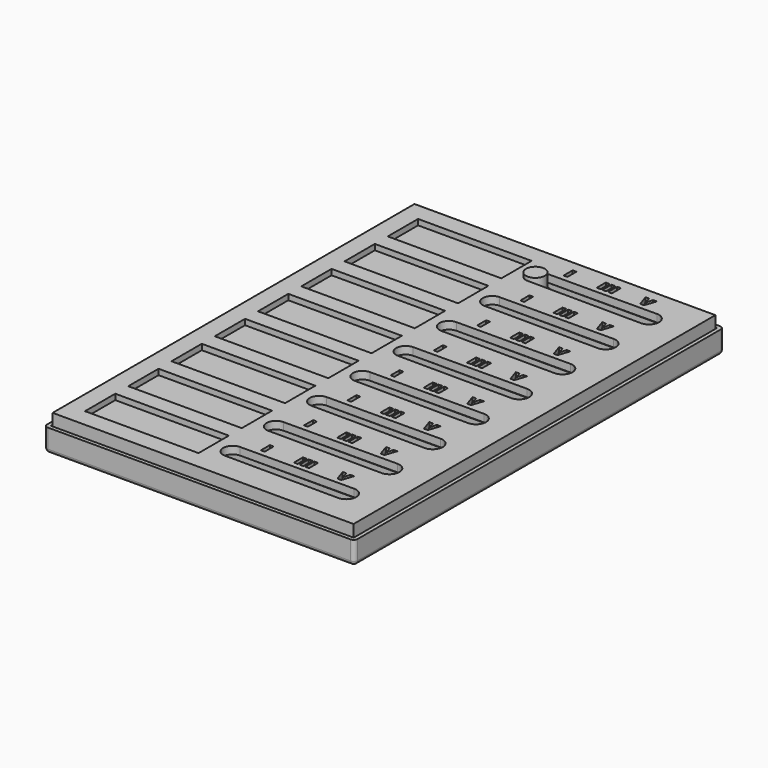
from build123d import *

# Parameters (mm, degrees)
SKETCH_W               = 80
SKETCH_H               = 120
PAD_DEPTH              = 5
THICKNESS_T            = 1
PAD001_DEPTH           = 5
POCKET001_DEPTH        = 5
LINEARPATTERN_COUNT    = 8
LINEARPATTERN_PITCH    = 14.285714
LINEARPATTERN002_COUNT = 8
LINEARPATTERN002_PITCH = 14.285714
SKETCH002_W            = 79.5
SKETCH002_H            = 119.5
PAD002_DEPTH           = 6
THICKNESS002_T         = -2
POCKET_DEPTH           = 5
LINEARPATTERN001_COUNT = 8
LINEARPATTERN001_PITCH = 14.285714
SKETCH017_W            = 30
SKETCH017_H            = 10
SKETCH017_W_2          = 1
SKETCH017_H_2          = 3
POCKET002_DEPTH        = 1.5
LINEARPATTERN003_COUNT = 8
LINEARPATTERN003_PITCH = 14.285714
PAD003_DEPTH           = 4
SKETCH005_R            = 2.5
PAD004_DEPTH           = 5
SKETCH007_W            = 2.5
SKETCH007_H            = 7
PAD005_DEPTH           = 5.5
CHAMFER_SIZE           = 1
SKETCH018_W            = 29.5
SKETCH018_H            = 9.5
PAD006_DEPTH           = 1
PAD007_DEPTH           = 2
SKETCH019_W            = 29.5
SKETCH019_H            = 9.5
PAD008_DEPTH           = 1
PAD009_DEPTH           = 2


with BuildPart() as base:
    # Sketch → Pad (new body)
    with BuildSketch(Plane.XY):
        Rectangle(SKETCH_W, SKETCH_H)
    extrude(amount=PAD_DEPTH)

    # Thickness
    thickness_openings = [base.faces().sort_by_distance(p)[0] for p in [
        (0, 0, 5),
    ]]
    offset(amount=THICKNESS_T, openings=thickness_openings)

    # Sketch001 (on DatumPlane) → Pad001 (join)
    with BuildSketch(Plane(origin=(0, 50, 0), x_dir=(1, 0, 0), z_dir=(0, 0, 1))):
        with BuildLine():
            ThreePointArc((-30, 5), (-35, 0), (-30, -5))
            Line((-30, -5), (30, -5))
            ThreePointArc((30, -5), (35, 0), (30, 5))
            Line((-30, 5), (30, 5))
        make_face()
    pad001 = extrude(amount=PAD001_DEPTH)

    # Sketch006 (on DatumPlane) → Pocket001 (cut)
    with BuildSketch(Plane(origin=(0, 50, 5), x_dir=(1, 0, 0), z_dir=(0, 0, 1))):
        with BuildLine():
            ThreePointArc((-30, 4), (-34, 0), (-30, -4))
            Line((-30, -4), (30, -4))
            ThreePointArc((30, -4), (34, 0), (30, 4))
            Line((-30, 4), (30, 4))
        make_face()
    pocket001 = extrude(amount=-POCKET001_DEPTH, mode=Mode.SUBTRACT)

    # LinearPattern: Pad001 ×8
    with Locations(*[(0, -i * LINEARPATTERN_PITCH, 0) for i in range(1, LINEARPATTERN_COUNT)]):
        add(pad001)

    # LinearPattern002: Pocket001 ×8
    with Locations(*[(0, -i * LINEARPATTERN002_PITCH, 0) for i in range(1, LINEARPATTERN002_COUNT)]):
        add(pocket001, mode=Mode.SUBTRACT)


with BuildPart() as lid:
    # Sketch002 → Pad002 (new body)
    with BuildSketch(Plane.XY.offset(2)):
        Rectangle(SKETCH002_W, SKETCH002_H)
    extrude(amount=PAD002_DEPTH)

    # Thickness002
    thickness002_openings = [lid.faces().sort_by_distance(p)[0] for p in [
        (0, 0, 2),
    ]]
    offset(amount=THICKNESS002_T, openings=thickness002_openings)

    # Sketch003 (on DatumPlane) → Pocket (cut)
    with BuildSketch(Plane(origin=(0, 50, 8), x_dir=(1, 0, 0), z_dir=(0, 0, 1))):
        with BuildLine():
            ThreePointArc((0, 2.5), (-2.487832, 0), (0, -2.5))
            Line((0, -2.5), (30, -2.646376))
            ThreePointArc((30, -2.646376), (32.65932, 0), (30, 2.646376))
            Line((0, 2.5), (30, 2.646376))
        make_face()
    pocket = extrude(amount=-POCKET_DEPTH, mode=Mode.SUBTRACT)

    # LinearPattern001: Pocket ×8
    with Locations(*[(0, -i * LINEARPATTERN001_PITCH, 0) for i in range(1, LINEARPATTERN001_COUNT)]):
        add(pocket, mode=Mode.SUBTRACT)

    # Sketch017 (on DatumPlane) → Pocket002 (cut)
    with BuildSketch(Plane(origin=(0, 50, 8), x_dir=(1, 0, 0), z_dir=(0, 0, 1))):
        with Locations((-20, 0)):
            Rectangle(SKETCH017_W, SKETCH017_H)
        with Locations((4.75, 5.5)):
            Rectangle(SKETCH017_W_2, SKETCH017_H_2)
        with Locations((13.5, 5.5)):
            Rectangle(SKETCH017_W_2, SKETCH017_H_2)
        with Locations((15, 5.5)):
            Rectangle(SKETCH017_W_2, SKETCH017_H_2)
        with Locations((16.5, 5.5)):
            Rectangle(SKETCH017_W_2, SKETCH017_H_2)
        Polygon((23.5, 7), (24.5, 7), (25, 5), (25.5, 7), (26.5, 7), (25.5, 4), (24.5, 4), align=None)
    pocket002 = extrude(amount=-POCKET002_DEPTH, mode=Mode.SUBTRACT)

    # LinearPattern003: Pocket002 ×8
    with Locations(*[(0, -i * LINEARPATTERN003_PITCH, 0) for i in range(1, LINEARPATTERN003_COUNT)]):
        add(pocket002, mode=Mode.SUBTRACT)


with BuildPart() as slider:
    # Sketch004 → Pad003 (new body)
    with BuildSketch(Plane(origin=(0, 50, 0), x_dir=(1, 0, 0), z_dir=(0, 0, 1))):
        with BuildLine():
            ThreePointArc((-30, 3.75), (-33.75, 0), (-30, -3.75))
            Line((-30, -3.75), (0, -3.75))
            ThreePointArc((0, -3.75), (3.75, 0), (0, 3.75))
            Line((-30, 3.75), (0, 3.75))
        make_face()
    extrude(amount=PAD003_DEPTH)

    # Sketch005 (on DatumPlane) → Pad004 (join)
    with BuildSketch(Plane(origin=(0, 50, 4), x_dir=(1, 0, 0), z_dir=(0, 0, 1))):
        Circle(SKETCH005_R)
    extrude(amount=PAD004_DEPTH)

    # Sketch007 (on DatumPlane) → Pad005 (join)
    with BuildSketch(Plane(origin=(0, 50, 0), x_dir=(1, 0, 0), z_dir=(0, 0, 1))):
        with Locations((-28.75, 0)):
            Rectangle(SKETCH007_W, SKETCH007_H)
    extrude(amount=PAD005_DEPTH)

    # Chamfer
    chamfer_edges = [slider.edges().sort_by_distance(p)[0] for p in [
        (-27.5, 50, 5.5),
        (-30, 50, 5.5),
    ]]
    chamfer(chamfer_edges, length=CHAMFER_SIZE)


with BuildPart() as sunbadge:
    # Sketch018 → Pad006 (new body)
    with BuildSketch(Plane.XY):
        Rectangle(SKETCH018_W, SKETCH018_H)
    extrude(amount=PAD006_DEPTH)

    # Sketch008 (on DatumPlane) → Pad007 (join)
    with BuildSketch(Plane(origin=(30, -50.5, 0), x_dir=(1, 0, 0), z_dir=(0, 0, 1))):
        with BuildLine():
            add(Edge.make_bspline(
                [(-37.253, 48.375), (-37.253, 48.291), (-37.235, 48.219)],
                knots=[0, 0, 0, 1, 1, 1], degree=2))
            add(Edge.make_bspline(
                [(-37.235, 48.219), (-37.217, 48.15), (-37.19, 48.075)],
                knots=[0, 0, 0, 1, 1, 1], degree=2))
            add(Edge.make_bspline(
                [(-37.19, 48.075), (-37.172, 48.033), (-37.076, 47.988)],
                knots=[0, 0, 0, 1, 1, 1], degree=2))
            add(Edge.make_bspline(
                [(-37.076, 47.988), (-36.977, 47.943), (-36.854, 47.901)],
                knots=[0, 0, 0, 1, 1, 1], degree=2))
            add(Edge.make_bspline(
                [(-36.854, 47.901), (-36.728, 47.859), (-36.599, 47.835)],
                knots=[0, 0, 0, 1, 1, 1], degree=2))
            add(Edge.make_bspline(
                [(-36.599, 47.835), (-36.47, 47.808), (-36.386, 47.808)],
                knots=[0, 0, 0, 1, 1, 1], degree=2))
            add(Edge.make_bspline(
                [(-36.386, 47.808), (-36.056, 47.808), (-35.849, 48)],
                knots=[0, 0, 0, 1, 1, 1], degree=2))
            add(Edge.make_bspline(
                [(-35.849, 48), (-35.642, 48.189), (-35.519, 48.429)],
                knots=[0, 0, 0, 1, 1, 1], degree=2))
            add(Edge.make_bspline(
                [(-35.519, 48.429), (-35.393, 48.672), (-35.348, 48.9)],
                knots=[0, 0, 0, 1, 1, 1], degree=2))
            add(Edge.make_bspline(
                [(-35.348, 48.9), (-35.3, 49.128), (-35.3, 49.2)],
                knots=[0, 0, 0, 1, 1, 1], degree=2))
            add(Edge.make_bspline(
                [(-35.3, 49.2), (-35.3, 49.599), (-35.456, 50.04)],
                knots=[0, 0, 0, 1, 1, 1], degree=2))
            add(Edge.make_bspline(
                [(-35.456, 50.04), (-35.612, 50.481), (-35.804, 50.895)],
                knots=[0, 0, 0, 1, 1, 1], degree=2))
            add(Edge.make_bspline(
                [(-35.804, 50.895), (-35.993, 51.309), (-36.149, 51.669)],
                knots=[0, 0, 0, 1, 1, 1], degree=2))
            add(Edge.make_bspline(
                [(-36.149, 51.669), (-36.305, 52.029), (-36.305, 52.266)],
                knots=[0, 0, 0, 1, 1, 1], degree=2))
            add(Edge.make_bspline(
                [(-36.305, 52.266), (-36.305, 52.647), (-36.038, 52.905)],
                knots=[0, 0, 0, 1, 1, 1], degree=2))
            add(Edge.make_bspline(
                [(-36.038, 52.905), (-35.771, 53.166), (-35.162, 53.184)],
                knots=[0, 0, 0, 1, 1, 1], degree=2))
            add(Edge.make_bspline(
                [(-35.162, 53.184), (-34.904, 53.193), (-34.835, 53.247)],
                knots=[0, 0, 0, 1, 1, 1], degree=2))
            add(Edge.make_bspline(
                [(-34.835, 53.247), (-34.766, 53.304), (-34.766, 53.49)],
                knots=[0, 0, 0, 1, 1, 1], degree=2))
            add(Edge.make_bspline(
                [(-34.766, 53.49), (-34.766, 53.565), (-34.859, 53.616)],
                knots=[0, 0, 0, 1, 1, 1], degree=2))
            add(Edge.make_bspline(
                [(-34.859, 53.616), (-34.949, 53.667), (-35.069, 53.7)],
                knots=[0, 0, 0, 1, 1, 1], degree=2))
            add(Edge.make_bspline(
                [(-35.069, 53.7), (-35.189, 53.733), (-35.315, 53.745)],
                knots=[0, 0, 0, 1, 1, 1], degree=2))
            add(Edge.make_bspline(
                [(-35.315, 53.745), (-35.438, 53.76), (-35.501, 53.76)],
                knots=[0, 0, 0, 1, 1, 1], degree=2))
            add(Edge.make_bspline(
                [(-35.501, 53.76), (-35.798, 53.76), (-36.071, 53.544)],
                knots=[0, 0, 0, 1, 1, 1], degree=2))
            add(Edge.make_bspline(
                [(-36.071, 53.544), (-36.341, 53.328), (-36.548, 53.031)],
                knots=[0, 0, 0, 1, 1, 1], degree=2))
            add(Edge.make_bspline(
                [(-36.548, 53.031), (-36.755, 52.737), (-36.881, 52.446)],
                knots=[0, 0, 0, 1, 1, 1], degree=2))
            add(Edge.make_bspline(
                [(-36.881, 52.446), (-37.004, 52.158), (-37.004, 52.002)],
                knots=[0, 0, 0, 1, 1, 1], degree=2))
            add(Edge.make_bspline(
                [(-37.004, 52.002), (-37.004, 51.828), (-36.917, 51.579)],
                knots=[0, 0, 0, 1, 1, 1], degree=2))
            add(Edge.make_bspline(
                [(-36.917, 51.579), (-36.83, 51.33), (-36.701, 51.048)],
                knots=[0, 0, 0, 1, 1, 1], degree=2))
            add(Edge.make_bspline(
                [(-36.701, 51.048), (-36.572, 50.769), (-36.419, 50.469)],
                knots=[0, 0, 0, 1, 1, 1], degree=2))
            add(Edge.make_bspline(
                [(-36.419, 50.469), (-36.266, 50.169), (-36.137, 49.887)],
                knots=[0, 0, 0, 1, 1, 1], degree=2))
            add(Edge.make_bspline(
                [(-36.137, 49.887), (-36.008, 49.608), (-35.921, 49.359)],
                knots=[0, 0, 0, 1, 1, 1], degree=2))
            add(Edge.make_bspline(
                [(-35.921, 49.359), (-35.834, 49.11), (-35.834, 48.927)],
                knots=[0, 0, 0, 1, 1, 1], degree=2))
            add(Edge.make_bspline(
                [(-35.834, 48.927), (-35.834, 48.726), (-35.987, 48.555)],
                knots=[0, 0, 0, 1, 1, 1], degree=2))
            add(Edge.make_bspline(
                [(-35.987, 48.555), (-36.137, 48.384), (-36.386, 48.384)],
                knots=[0, 0, 0, 1, 1, 1], degree=2))
            add(Edge.make_bspline(
                [(-36.386, 48.384), (-36.644, 48.384), (-36.821, 48.471)],
                knots=[0, 0, 0, 1, 1, 1], degree=2))
            add(Edge.make_bspline(
                [(-36.821, 48.471), (-36.995, 48.558), (-37.124, 48.558)],
                knots=[0, 0, 0, 1, 1, 1], degree=2))
            add(Edge.make_bspline(
                [(-37.124, 48.558), (-37.172, 48.558), (-37.214, 48.516)],
                knots=[0, 0, 0, 1, 1, 1], degree=2))
            add(Edge.make_bspline(
                [(-37.214, 48.516), (-37.253, 48.477), (-37.253, 48.375)],
                knots=[0, 0, 0, 1, 1, 1], degree=2))
        make_face()
        with BuildLine():
            add(Edge.make_bspline(
                [(-33.2, 53.163), (-33.2, 52.446), (-33.179, 51.762)],
                knots=[0, 0, 0, 1, 1, 1], degree=2))
            add(Edge.make_bspline(
                [(-33.179, 51.762), (-33.155, 51.078), (-33.104, 50.502)],
                knots=[0, 0, 0, 1, 1, 1], degree=2))
            add(Edge.make_bspline(
                [(-33.104, 50.502), (-33.053, 49.926), (-32.975, 49.494)],
                knots=[0, 0, 0, 1, 1, 1], degree=2))
            add(Edge.make_bspline(
                [(-32.975, 49.494), (-32.897, 49.065), (-32.786, 48.849)],
                knots=[0, 0, 0, 1, 1, 1], degree=2))
            add(Edge.make_bspline(
                [(-32.786, 48.849), (-32.684, 48.651), (-32.483, 48.489)],
                knots=[0, 0, 0, 1, 1, 1], degree=2))
            add(Edge.make_bspline(
                [(-32.483, 48.489), (-32.279, 48.33), (-32.045, 48.222)],
                knots=[0, 0, 0, 1, 1, 1], degree=2))
            add(Edge.make_bspline(
                [(-32.045, 48.222), (-31.808, 48.114), (-31.571, 48.057)],
                knots=[0, 0, 0, 1, 1, 1], degree=2))
            add(Edge.make_bspline(
                [(-31.571, 48.057), (-31.331, 48), (-31.145, 48)],
                knots=[0, 0, 0, 1, 1, 1], degree=2))
            add(Edge.make_bspline(
                [(-31.145, 48), (-31.052, 48), (-30.962, 48.009)],
                knots=[0, 0, 0, 1, 1, 1], degree=2))
            add(Edge.make_bspline(
                [(-30.962, 48.009), (-30.869, 48.021), (-30.767, 48.06)],
                knots=[0, 0, 0, 1, 1, 1], degree=2))
            add(Edge.make_bspline(
                [(-30.767, 48.06), (-30.371, 48.228), (-29.972, 48.558)],
                knots=[0, 0, 0, 1, 1, 1], degree=2))
            add(Edge.make_bspline(
                [(-29.972, 48.558), (-29.57, 48.888), (-29.348, 49.431)],
                knots=[0, 0, 0, 1, 1, 1], degree=2))
            add(Edge.make_bspline(
                [(-29.348, 49.431), (-29.294, 49.581), (-29.231, 49.86)],
                knots=[0, 0, 0, 1, 1, 1], degree=2))
            add(Edge.make_bspline(
                [(-29.231, 49.86), (-29.165, 50.142), (-29.105, 50.487)],
                knots=[0, 0, 0, 1, 1, 1], degree=2))
            add(Edge.make_bspline(
                [(-29.105, 50.487), (-29.045, 50.832), (-28.991, 51.21)],
                knots=[0, 0, 0, 1, 1, 1], degree=2))
            add(Edge.make_bspline(
                [(-28.991, 51.21), (-28.934, 51.588), (-28.892, 51.924)],
                knots=[0, 0, 0, 1, 1, 1], degree=2))
            add(Edge.make_bspline(
                [(-28.892, 51.924), (-28.85, 52.263), (-28.823, 52.524)],
                knots=[0, 0, 0, 1, 1, 1], degree=2))
            add(Edge.make_bspline(
                [(-28.823, 52.524), (-28.796, 52.788), (-28.796, 52.899)],
                knots=[0, 0, 0, 1, 1, 1], degree=2))
            add(Edge.make_bspline(
                [(-28.796, 52.899), (-28.796, 53.055), (-28.94, 53.133)],
                knots=[0, 0, 0, 1, 1, 1], degree=2))
            add(Edge.make_bspline(
                [(-28.94, 53.133), (-29.081, 53.211), (-29.255, 53.211)],
                knots=[0, 0, 0, 1, 1, 1], degree=2))
            add(Edge.make_bspline(
                [(-29.255, 53.211), (-29.402, 53.211), (-29.504, 53.163)],
                knots=[0, 0, 0, 1, 1, 1], degree=2))
            add(Edge.make_bspline(
                [(-29.504, 53.163), (-29.606, 53.118), (-29.606, 52.998)],
                knots=[0, 0, 0, 1, 1, 1], degree=2))
            add(Edge.make_bspline(
                [(-29.606, 52.998), (-29.606, 52.953), (-29.588, 52.878)],
                knots=[0, 0, 0, 1, 1, 1], degree=2))
            add(Edge.make_bspline(
                [(-29.588, 52.878), (-29.57, 52.806), (-29.552, 52.668)],
                knots=[0, 0, 0, 1, 1, 1], degree=2))
            add(Edge.make_bspline(
                [(-29.552, 52.668), (-29.531, 52.53), (-29.513, 52.308)],
                knots=[0, 0, 0, 1, 1, 1], degree=2))
            add(Edge.make_bspline(
                [(-29.513, 52.308), (-29.495, 52.086), (-29.495, 51.756)],
                knots=[0, 0, 0, 1, 1, 1], degree=2))
            add(Edge.make_bspline(
                [(-29.495, 51.756), (-29.495, 51.507), (-29.51, 51.174)],
                knots=[0, 0, 0, 1, 1, 1], degree=2))
            add(Edge.make_bspline(
                [(-29.51, 51.174), (-29.522, 50.841), (-29.57, 50.487)],
                knots=[0, 0, 0, 1, 1, 1], degree=2))
            add(Edge.make_bspline(
                [(-29.57, 50.487), (-29.615, 50.133), (-29.711, 49.791)],
                knots=[0, 0, 0, 1, 1, 1], degree=2))
            add(Edge.make_bspline(
                [(-29.711, 49.791), (-29.807, 49.452), (-29.975, 49.179)],
                knots=[0, 0, 0, 1, 1, 1], degree=2))
            add(Edge.make_bspline(
                [(-29.975, 49.179), (-30.14, 48.906), (-30.389, 48.741)],
                knots=[0, 0, 0, 1, 1, 1], degree=2))
            add(Edge.make_bspline(
                [(-30.389, 48.741), (-30.638, 48.576), (-30.989, 48.576)],
                knots=[0, 0, 0, 1, 1, 1], degree=2))
            add(Edge.make_bspline(
                [(-30.989, 48.576), (-31.154, 48.576), (-31.358, 48.642)],
                knots=[0, 0, 0, 1, 1, 1], degree=2))
            add(Edge.make_bspline(
                [(-31.358, 48.642), (-31.559, 48.708), (-31.748, 48.819)],
                knots=[0, 0, 0, 1, 1, 1], degree=2))
            add(Edge.make_bspline(
                [(-31.748, 48.819), (-31.937, 48.933), (-32.096, 49.077)],
                knots=[0, 0, 0, 1, 1, 1], degree=2))
            add(Edge.make_bspline(
                [(-32.096, 49.077), (-32.252, 49.224), (-32.315, 49.383)],
                knots=[0, 0, 0, 1, 1, 1], degree=2))
            add(Edge.make_bspline(
                [(-32.315, 49.383), (-32.471, 49.731), (-32.504, 50.175)],
                knots=[0, 0, 0, 1, 1, 1], degree=2))
            add(Edge.make_bspline(
                [(-32.504, 50.175), (-32.537, 50.622), (-32.537, 51.222)],
                knots=[0, 0, 0, 1, 1, 1], degree=2))
            add(Edge.make_bspline(
                [(-32.537, 51.222), (-32.537, 51.795), (-32.486, 52.122)],
                knots=[0, 0, 0, 1, 1, 1], degree=2))
            add(Edge.make_bspline(
                [(-32.486, 52.122), (-32.435, 52.452), (-32.381, 52.629)],
                knots=[0, 0, 0, 1, 1, 1], degree=2))
            add(Edge.make_bspline(
                [(-32.381, 52.629), (-32.324, 52.809), (-32.273, 52.887)],
                knots=[0, 0, 0, 1, 1, 1], degree=2))
            add(Edge.make_bspline(
                [(-32.273, 52.887), (-32.222, 52.968), (-32.222, 53.043)],
                knots=[0, 0, 0, 1, 1, 1], degree=2))
            add(Edge.make_bspline(
                [(-32.222, 53.043), (-32.222, 53.118), (-32.321, 53.205)],
                knots=[0, 0, 0, 1, 1, 1], degree=2))
            add(Edge.make_bspline(
                [(-32.321, 53.205), (-32.417, 53.295), (-32.543, 53.373)],
                knots=[0, 0, 0, 1, 1, 1], degree=2))
            add(Edge.make_bspline(
                [(-32.543, 53.373), (-32.666, 53.454), (-32.792, 53.511)],
                knots=[0, 0, 0, 1, 1, 1], degree=2))
            add(Edge.make_bspline(
                [(-32.792, 53.511), (-32.915, 53.568), (-32.978, 53.568)],
                knots=[0, 0, 0, 1, 1, 1], degree=2))
            add(Edge.make_bspline(
                [(-32.978, 53.568), (-33.116, 53.568), (-33.158, 53.472)],
                knots=[0, 0, 0, 1, 1, 1], degree=2))
            add(Edge.make_bspline(
                [(-33.158, 53.472), (-33.2, 53.379), (-33.2, 53.163)],
                knots=[0, 0, 0, 1, 1, 1], degree=2))
        make_face()
        with BuildLine():
            Line((-26.414, 51.45), (-26.525, 49.179))
            add(Edge.make_bspline(
                [(-26.525, 49.179), (-26.543, 48.903), (-26.6, 48.726)],
                knots=[0, 0, 0, 1, 1, 1], degree=2))
            add(Edge.make_bspline(
                [(-26.6, 48.726), (-26.654, 48.552), (-26.714, 48.447)],
                knots=[0, 0, 0, 1, 1, 1], degree=2))
            add(Edge.make_bspline(
                [(-26.714, 48.447), (-26.774, 48.342), (-26.822, 48.27)],
                knots=[0, 0, 0, 1, 1, 1], degree=2))
            add(Edge.make_bspline(
                [(-26.822, 48.27), (-26.867, 48.201), (-26.867, 48.129)],
                knots=[0, 0, 0, 1, 1, 1], degree=2))
            add(Edge.make_bspline(
                [(-26.867, 48.129), (-26.867, 48), (-26.69, 48)],
                knots=[0, 0, 0, 1, 1, 1], degree=2))
            add(Edge.make_bspline(
                [(-26.69, 48), (-26.588, 48), (-26.474, 48.027)],
                knots=[0, 0, 0, 1, 1, 1], degree=2))
            add(Edge.make_bspline(
                [(-26.474, 48.027), (-26.36, 48.054), (-26.138, 48.111)],
                knots=[0, 0, 0, 1, 1, 1], degree=2))
            add(Edge.make_bspline(
                [(-26.138, 48.111), (-26.036, 48.138), (-26.006, 48.216)],
                knots=[0, 0, 0, 1, 1, 1], degree=2))
            add(Edge.make_bspline(
                [(-26.006, 48.216), (-25.973, 48.294), (-25.973, 48.369)],
                knots=[0, 0, 0, 1, 1, 1], degree=2))
            add(Edge.make_bspline(
                [(-25.973, 48.369), (-25.973, 48.477), (-25.982, 48.684)],
                knots=[0, 0, 0, 1, 1, 1], degree=2))
            add(Edge.make_bspline(
                [(-25.982, 48.684), (-25.991, 48.894), (-25.991, 49.095)],
                knots=[0, 0, 0, 1, 1, 1], degree=2))
            add(Edge.make_bspline(
                [(-25.991, 49.095), (-25.991, 49.326), (-25.988, 49.662)],
                knots=[0, 0, 0, 1, 1, 1], degree=2))
            add(Edge.make_bspline(
                [(-25.988, 49.662), (-25.982, 49.998), (-25.979, 50.382)],
                knots=[0, 0, 0, 1, 1, 1], degree=2))
            add(Edge.make_bspline(
                [(-25.979, 50.382), (-25.973, 50.769), (-25.955, 51.177)],
                knots=[0, 0, 0, 1, 1, 1], degree=2))
            add(Edge.make_bspline(
                [(-25.955, 51.177), (-25.934, 51.588), (-25.907, 51.975)],
                knots=[0, 0, 0, 1, 1, 1], degree=2))
            add(Edge.make_bspline(
                [(-25.907, 51.975), (-25.769, 51.819), (-25.499, 51.543)],
                knots=[0, 0, 0, 1, 1, 1], degree=2))
            add(Edge.make_bspline(
                [(-25.499, 51.543), (-25.226, 51.267), (-24.89, 50.913)],
                knots=[0, 0, 0, 1, 1, 1], degree=2))
            add(Edge.make_bspline(
                [(-24.89, 50.913), (-24.554, 50.559), (-24.173, 50.148)],
                knots=[0, 0, 0, 1, 1, 1], degree=2))
            add(Edge.make_bspline(
                [(-24.173, 50.148), (-23.789, 49.74), (-23.429, 49.317)],
                knots=[0, 0, 0, 1, 1, 1], degree=2))
            add(Edge.make_bspline(
                [(-23.429, 49.317), (-23.264, 49.122), (-23.177, 48.927)],
                knots=[0, 0, 0, 1, 1, 1], degree=2))
            add(Edge.make_bspline(
                [(-23.177, 48.927), (-23.087, 48.735), (-23.042, 48.579)],
                knots=[0, 0, 0, 1, 1, 1], degree=2))
            add(Edge.make_bspline(
                [(-23.042, 48.579), (-22.997, 48.423), (-22.964, 48.321)],
                knots=[0, 0, 0, 1, 1, 1], degree=2))
            add(Edge.make_bspline(
                [(-22.964, 48.321), (-22.931, 48.219), (-22.886, 48.219)],
                knots=[0, 0, 0, 1, 1, 1], degree=2))
            add(Edge.make_bspline(
                [(-22.886, 48.219), (-22.847, 48.219), (-22.748, 48.279)],
                knots=[0, 0, 0, 1, 1, 1], degree=2))
            add(Edge.make_bspline(
                [(-22.748, 48.279), (-22.646, 48.339), (-22.541, 48.426)],
                knots=[0, 0, 0, 1, 1, 1], degree=2))
            add(Edge.make_bspline(
                [(-22.541, 48.426), (-22.433, 48.516), (-22.352, 48.621)],
                knots=[0, 0, 0, 1, 1, 1], degree=2))
            add(Edge.make_bspline(
                [(-22.352, 48.621), (-22.268, 48.726), (-22.268, 48.819)],
                knots=[0, 0, 0, 1, 1, 1], degree=2))
            add(Edge.make_bspline(
                [(-22.268, 48.819), (-22.268, 49.113), (-22.277, 49.374)],
                knots=[0, 0, 0, 1, 1, 1], degree=2))
            add(Edge.make_bspline(
                [(-22.277, 49.374), (-22.286, 49.638), (-22.286, 49.869)],
                knots=[0, 0, 0, 1, 1, 1], degree=2))
            add(Edge.make_bspline(
                [(-22.286, 49.869), (-22.286, 50.622), (-22.241, 51.159)],
                knots=[0, 0, 0, 1, 1, 1], degree=2))
            add(Edge.make_bspline(
                [(-22.241, 51.159), (-22.193, 51.699), (-22.139, 52.056)],
                knots=[0, 0, 0, 1, 1, 1], degree=2))
            add(Edge.make_bspline(
                [(-22.139, 52.056), (-22.082, 52.416), (-22.037, 52.626)],
                knots=[0, 0, 0, 1, 1, 1], degree=2))
            add(Edge.make_bspline(
                [(-22.037, 52.626), (-21.989, 52.839), (-21.989, 52.932)],
                knots=[0, 0, 0, 1, 1, 1], degree=2))
            add(Edge.make_bspline(
                [(-21.989, 52.932), (-21.989, 53.034), (-22.037, 53.112)],
                knots=[0, 0, 0, 1, 1, 1], degree=2))
            add(Edge.make_bspline(
                [(-22.037, 53.112), (-22.082, 53.19), (-22.211, 53.19)],
                knots=[0, 0, 0, 1, 1, 1], degree=2))
            add(Edge.make_bspline(
                [(-22.211, 53.19), (-22.304, 53.19), (-22.415, 53.181)],
                knots=[0, 0, 0, 1, 1, 1], degree=2))
            add(Edge.make_bspline(
                [(-22.415, 53.181), (-22.526, 53.172), (-22.628, 53.145)],
                knots=[0, 0, 0, 1, 1, 1], degree=2))
            add(Edge.make_bspline(
                [(-22.628, 53.145), (-22.727, 53.118), (-22.796, 53.067)],
                knots=[0, 0, 0, 1, 1, 1], degree=2))
            add(Edge.make_bspline(
                [(-22.796, 53.067), (-22.865, 53.016), (-22.874, 52.932)],
                knots=[0, 0, 0, 1, 1, 1], degree=2))
            add(Edge.make_bspline(
                [(-22.874, 52.932), (-22.874, 52.869), (-22.847, 52.758)],
                knots=[0, 0, 0, 1, 1, 1], degree=2))
            add(Edge.make_bspline(
                [(-22.847, 52.758), (-22.82, 52.647), (-22.793, 52.461)],
                knots=[0, 0, 0, 1, 1, 1], degree=2))
            add(Edge.make_bspline(
                [(-22.793, 52.461), (-22.763, 52.278), (-22.736, 52.011)],
                knots=[0, 0, 0, 1, 1, 1], degree=2))
            add(Edge.make_bspline(
                [(-22.736, 52.011), (-22.709, 51.744), (-22.709, 51.387)],
                knots=[0, 0, 0, 1, 1, 1], degree=2))
            add(Edge.make_bspline(
                [(-22.709, 51.387), (-22.709, 50.937), (-22.742, 50.508)],
                knots=[0, 0, 0, 1, 1, 1], degree=2))
            add(Edge.make_bspline(
                [(-22.742, 50.508), (-22.772, 50.079), (-22.847, 49.611)],
                knots=[0, 0, 0, 1, 1, 1], degree=2))
            add(Edge.make_bspline(
                [(-22.847, 49.611), (-22.976, 49.722), (-23.333, 50.088)],
                knots=[0, 0, 0, 1, 1, 1], degree=2))
            add(Edge.make_bspline(
                [(-23.333, 50.088), (-23.687, 50.457), (-24.17, 50.982)],
                knots=[0, 0, 0, 1, 1, 1], degree=2))
            add(Edge.make_bspline(
                [(-24.17, 50.982), (-24.653, 51.507), (-25.217, 52.14)],
                knots=[0, 0, 0, 1, 1, 1], degree=2))
            add(Edge.make_bspline(
                [(-25.217, 52.14), (-25.778, 52.776), (-26.312, 53.412)],
                knots=[0, 0, 0, 1, 1, 1], degree=2))
            add(Edge.make_bspline(
                [(-26.312, 53.412), (-26.387, 53.505), (-26.438, 53.535)],
                knots=[0, 0, 0, 1, 1, 1], degree=2))
            add(Edge.make_bspline(
                [(-26.438, 53.535), (-26.489, 53.568), (-26.543, 53.568)],
                knots=[0, 0, 0, 1, 1, 1], degree=2))
            add(Edge.make_bspline(
                [(-26.543, 53.568), (-26.588, 53.568), (-26.639, 53.55)],
                knots=[0, 0, 0, 1, 1, 1], degree=2))
            add(Edge.make_bspline(
                [(-26.639, 53.55), (-26.69, 53.532), (-26.765, 53.466)],
                knots=[0, 0, 0, 1, 1, 1], degree=2))
            Line((-26.765, 53.466), (-27.095, 53.199))
            add(Edge.make_bspline(
                [(-27.095, 53.199), (-27.197, 53.127), (-27.197, 53.061)],
                knots=[0, 0, 0, 1, 1, 1], degree=2))
            add(Edge.make_bspline(
                [(-27.197, 53.061), (-27.197, 52.941), (-27.074, 52.896)],
                knots=[0, 0, 0, 1, 1, 1], degree=2))
            add(Edge.make_bspline(
                [(-27.074, 52.896), (-26.948, 52.851), (-26.798, 52.791)],
                knots=[0, 0, 0, 1, 1, 1], degree=2))
            add(Edge.make_bspline(
                [(-26.798, 52.791), (-26.645, 52.731), (-26.522, 52.593)],
                knots=[0, 0, 0, 1, 1, 1], degree=2))
            add(Edge.make_bspline(
                [(-26.522, 52.593), (-26.396, 52.455), (-26.396, 52.14)],
                knots=[0, 0, 0, 1, 1, 1], degree=2))
            add(Edge.make_bspline(
                [(-26.396, 52.14), (-26.396, 51.966), (-26.402, 51.795)],
                knots=[0, 0, 0, 1, 1, 1], degree=2))
            add(Edge.make_bspline(
                [(-26.402, 51.795), (-26.405, 51.627), (-26.414, 51.45)],
                knots=[0, 0, 0, 1, 1, 1], degree=2))
        make_face()
    extrude(amount=PAD007_DEPTH)


with BuildPart() as obj1:
    # Sketch019 → Pad008 (new body)
    with BuildSketch(Plane.XY):
        Rectangle(SKETCH019_W, SKETCH019_H)
    extrude(amount=PAD008_DEPTH)

    # Sketch009 → Pad009 (join)
    with BuildSketch(Plane(origin=(23.5, -35.5, 0), x_dir=(1, 0, 0), z_dir=(0, 0, 1))):
        with BuildLine():
            Line((-35.567, 36.015), (-34.637, 35.049))
            add(Edge.make_bspline(
                [(-34.637, 35.049), (-34.268, 34.662), (-33.965, 34.413)],
                knots=[0, 0, 0, 1, 1, 1], degree=2))
            add(Edge.make_bspline(
                [(-33.965, 34.413), (-33.659, 34.164), (-33.398, 34.02)],
                knots=[0, 0, 0, 1, 1, 1], degree=2))
            add(Edge.make_bspline(
                [(-33.398, 34.02), (-33.134, 33.876), (-32.894, 33.822)],
                knots=[0, 0, 0, 1, 1, 1], degree=2))
            add(Edge.make_bspline(
                [(-32.894, 33.822), (-32.654, 33.768), (-32.405, 33.768)],
                knots=[0, 0, 0, 1, 1, 1], degree=2))
            add(Edge.make_bspline(
                [(-32.405, 33.768), (-31.76, 33.768), (-31.052, 34.107)],
                knots=[0, 0, 0, 1, 1, 1], degree=2))
            add(Edge.make_bspline(
                [(-31.052, 34.107), (-30.341, 34.449), (-29.696, 35.013)],
                knots=[0, 0, 0, 1, 1, 1], degree=2))
            Line((-29.696, 35.013), (-29.126, 35.514))
            add(Edge.make_bspline(
                [(-29.126, 35.514), (-29.108, 35.412), (-29.075, 35.187)],
                knots=[0, 0, 0, 1, 1, 1], degree=2))
            add(Edge.make_bspline(
                [(-29.075, 35.187), (-29.042, 34.965), (-29, 34.689)],
                knots=[0, 0, 0, 1, 1, 1], degree=2))
            add(Edge.make_bspline(
                [(-29, 34.689), (-28.958, 34.416), (-28.919, 34.131)],
                knots=[0, 0, 0, 1, 1, 1], degree=2))
            add(Edge.make_bspline(
                [(-28.919, 34.131), (-28.877, 33.849), (-28.847, 33.627)],
                knots=[0, 0, 0, 1, 1, 1], degree=2))
            add(Edge.make_bspline(
                [(-28.847, 33.627), (-28.82, 33.369), (-28.76, 33.222)],
                knots=[0, 0, 0, 1, 1, 1], degree=2))
            add(Edge.make_bspline(
                [(-28.76, 33.222), (-28.7, 33.075), (-28.589, 33.075)],
                knots=[0, 0, 0, 1, 1, 1], degree=2))
            add(Edge.make_bspline(
                [(-28.589, 33.075), (-28.535, 33.075), (-28.445, 33.105)],
                knots=[0, 0, 0, 1, 1, 1], degree=2))
            add(Edge.make_bspline(
                [(-28.445, 33.105), (-28.352, 33.138), (-28.265, 33.183)],
                knots=[0, 0, 0, 1, 1, 1], degree=2))
            add(Edge.make_bspline(
                [(-28.265, 33.183), (-28.175, 33.231), (-28.112, 33.282)],
                knots=[0, 0, 0, 1, 1, 1], degree=2))
            add(Edge.make_bspline(
                [(-28.112, 33.282), (-28.046, 33.333), (-28.046, 33.369)],
                knots=[0, 0, 0, 1, 1, 1], degree=2))
            add(Edge.make_bspline(
                [(-28.046, 33.369), (-28.046, 33.471), (-28.124, 33.627)],
                knots=[0, 0, 0, 1, 1, 1], degree=2))
            add(Edge.make_bspline(
                [(-28.124, 33.627), (-28.202, 33.783), (-28.301, 33.993)],
                knots=[0, 0, 0, 1, 1, 1], degree=2))
            add(Edge.make_bspline(
                [(-28.301, 33.993), (-28.397, 34.206), (-28.475, 34.476)],
                knots=[0, 0, 0, 1, 1, 1], degree=2))
            add(Edge.make_bspline(
                [(-28.475, 34.476), (-28.553, 34.746), (-28.553, 35.076)],
                knots=[0, 0, 0, 1, 1, 1], degree=2))
            add(Edge.make_bspline(
                [(-28.553, 35.076), (-28.553, 35.58), (-28.517, 35.994)],
                knots=[0, 0, 0, 1, 1, 1], degree=2))
            add(Edge.make_bspline(
                [(-28.517, 35.994), (-28.481, 36.408), (-28.43, 36.711)],
                knots=[0, 0, 0, 1, 1, 1], degree=2))
            add(Edge.make_bspline(
                [(-28.43, 36.711), (-28.379, 37.017), (-28.343, 37.215)],
                knots=[0, 0, 0, 1, 1, 1], degree=2))
            add(Edge.make_bspline(
                [(-28.343, 37.215), (-28.304, 37.413), (-28.304, 37.485)],
                knots=[0, 0, 0, 1, 1, 1], degree=2))
            add(Edge.make_bspline(
                [(-28.304, 37.485), (-28.304, 37.542), (-28.355, 37.584)],
                knots=[0, 0, 0, 1, 1, 1], degree=2))
            add(Edge.make_bspline(
                [(-28.355, 37.584), (-28.406, 37.626), (-28.475, 37.656)],
                knots=[0, 0, 0, 1, 1, 1], degree=2))
            add(Edge.make_bspline(
                [(-28.475, 37.656), (-28.544, 37.689), (-28.613, 37.701)],
                knots=[0, 0, 0, 1, 1, 1], degree=2))
            add(Edge.make_bspline(
                [(-28.613, 37.701), (-28.682, 37.716), (-28.718, 37.716)],
                knots=[0, 0, 0, 1, 1, 1], degree=2))
            add(Edge.make_bspline(
                [(-28.718, 37.716), (-28.775, 37.716), (-28.826, 37.623)],
                knots=[0, 0, 0, 1, 1, 1], degree=2))
            add(Edge.make_bspline(
                [(-28.826, 37.623), (-28.877, 37.533), (-28.931, 37.302)],
                knots=[0, 0, 0, 1, 1, 1], degree=2))
            add(Edge.make_bspline(
                [(-28.931, 37.302), (-29.096, 36.621), (-29.507, 36.039)],
                knots=[0, 0, 0, 1, 1, 1], degree=2))
            add(Edge.make_bspline(
                [(-29.507, 36.039), (-29.918, 35.46), (-30.416, 35.043)],
                knots=[0, 0, 0, 1, 1, 1], degree=2))
            add(Edge.make_bspline(
                [(-30.416, 35.043), (-30.914, 34.626), (-31.427, 34.389)],
                knots=[0, 0, 0, 1, 1, 1], degree=2))
            add(Edge.make_bspline(
                [(-31.427, 34.389), (-31.937, 34.152), (-32.315, 34.152)],
                knots=[0, 0, 0, 1, 1, 1], degree=2))
            add(Edge.make_bspline(
                [(-32.315, 34.152), (-32.516, 34.152), (-32.771, 34.281)],
                knots=[0, 0, 0, 1, 1, 1], degree=2))
            add(Edge.make_bspline(
                [(-32.771, 34.281), (-33.023, 34.41), (-33.305, 34.626)],
                knots=[0, 0, 0, 1, 1, 1], degree=2))
            add(Edge.make_bspline(
                [(-33.305, 34.626), (-33.587, 34.845), (-33.872, 35.115)],
                knots=[0, 0, 0, 1, 1, 1], degree=2))
            add(Edge.make_bspline(
                [(-33.872, 35.115), (-34.157, 35.388), (-34.421, 35.679)],
                knots=[0, 0, 0, 1, 1, 1], degree=2))
            add(Edge.make_bspline(
                [(-34.421, 35.679), (-34.682, 35.97), (-34.91, 36.249)],
                knots=[0, 0, 0, 1, 1, 1], degree=2))
            add(Edge.make_bspline(
                [(-34.91, 36.249), (-35.135, 36.531), (-35.291, 36.753)],
                knots=[0, 0, 0, 1, 1, 1], degree=2))
            add(Edge.make_bspline(
                [(-35.291, 36.753), (-35.651, 37.278), (-35.885, 37.599)],
                knots=[0, 0, 0, 1, 1, 1], degree=2))
            add(Edge.make_bspline(
                [(-35.885, 37.599), (-36.119, 37.923), (-36.263, 38.094)],
                knots=[0, 0, 0, 1, 1, 1], degree=2))
            add(Edge.make_bspline(
                [(-36.263, 38.094), (-36.407, 38.265), (-36.491, 38.319)],
                knots=[0, 0, 0, 1, 1, 1], degree=2))
            add(Edge.make_bspline(
                [(-36.491, 38.319), (-36.572, 38.376), (-36.635, 38.376)],
                knots=[0, 0, 0, 1, 1, 1], degree=2))
            add(Edge.make_bspline(
                [(-36.635, 38.376), (-36.701, 38.376), (-36.788, 38.367)],
                knots=[0, 0, 0, 1, 1, 1], degree=2))
            add(Edge.make_bspline(
                [(-36.788, 38.367), (-36.875, 38.358), (-36.959, 38.337)],
                knots=[0, 0, 0, 1, 1, 1], degree=2))
            add(Edge.make_bspline(
                [(-36.959, 38.337), (-37.043, 38.319), (-37.103, 38.292)],
                knots=[0, 0, 0, 1, 1, 1], degree=2))
            add(Edge.make_bspline(
                [(-37.103, 38.292), (-37.16, 38.265), (-37.16, 38.217)],
                knots=[0, 0, 0, 1, 1, 1], degree=2))
            add(Edge.make_bspline(
                [(-37.16, 38.217), (-37.16, 38.097), (-37.01, 37.917)],
                knots=[0, 0, 0, 1, 1, 1], degree=2))
            add(Edge.make_bspline(
                [(-37.01, 37.917), (-36.857, 37.737), (-36.668, 37.482)],
                knots=[0, 0, 0, 1, 1, 1], degree=2))
            add(Edge.make_bspline(
                [(-36.668, 37.482), (-36.479, 37.227), (-36.329, 36.873)],
                knots=[0, 0, 0, 1, 1, 1], degree=2))
            add(Edge.make_bspline(
                [(-36.329, 36.873), (-36.176, 36.522), (-36.176, 36.051)],
                knots=[0, 0, 0, 1, 1, 1], degree=2))
            add(Edge.make_bspline(
                [(-36.176, 36.051), (-36.176, 35.82), (-36.263, 35.454)],
                knots=[0, 0, 0, 1, 1, 1], degree=2))
            add(Edge.make_bspline(
                [(-36.263, 35.454), (-36.35, 35.088), (-36.488, 34.707)],
                knots=[0, 0, 0, 1, 1, 1], degree=2))
            add(Edge.make_bspline(
                [(-36.488, 34.707), (-36.626, 34.326), (-36.794, 33.987)],
                knots=[0, 0, 0, 1, 1, 1], degree=2))
            add(Edge.make_bspline(
                [(-36.794, 33.987), (-36.959, 33.651), (-37.106, 33.483)],
                knots=[0, 0, 0, 1, 1, 1], degree=2))
            add(Edge.make_bspline(
                [(-37.106, 33.483), (-37.235, 33.336), (-37.274, 33.261)],
                knots=[0, 0, 0, 1, 1, 1], degree=2))
            add(Edge.make_bspline(
                [(-37.274, 33.261), (-37.31, 33.189), (-37.31, 33.132)],
                knots=[0, 0, 0, 1, 1, 1], degree=2))
            add(Edge.make_bspline(
                [(-37.31, 33.132), (-37.31, 33.096), (-37.268, 33.039)],
                knots=[0, 0, 0, 1, 1, 1], degree=2))
            add(Edge.make_bspline(
                [(-37.268, 33.039), (-37.226, 32.985), (-37.163, 32.934)],
                knots=[0, 0, 0, 1, 1, 1], degree=2))
            add(Edge.make_bspline(
                [(-37.163, 32.934), (-37.097, 32.883), (-37.025, 32.847)],
                knots=[0, 0, 0, 1, 1, 1], degree=2))
            add(Edge.make_bspline(
                [(-37.025, 32.847), (-36.95, 32.808), (-36.884, 32.808)],
                knots=[0, 0, 0, 1, 1, 1], degree=2))
            add(Edge.make_bspline(
                [(-36.884, 32.808), (-36.755, 32.808), (-36.677, 32.817)],
                knots=[0, 0, 0, 1, 1, 1], degree=2))
            add(Edge.make_bspline(
                [(-36.677, 32.817), (-36.599, 32.826), (-36.554, 32.85)],
                knots=[0, 0, 0, 1, 1, 1], degree=2))
            add(Edge.make_bspline(
                [(-36.554, 32.85), (-36.506, 32.874), (-36.488, 32.922)],
                knots=[0, 0, 0, 1, 1, 1], degree=2))
            add(Edge.make_bspline(
                [(-36.488, 32.922), (-36.47, 32.967), (-36.452, 33.039)],
                knots=[0, 0, 0, 1, 1, 1], degree=2))
            add(Edge.make_bspline(
                [(-36.452, 33.039), (-36.377, 33.402), (-36.125, 34.179)],
                knots=[0, 0, 0, 1, 1, 1], degree=2))
            add(Edge.make_bspline(
                [(-36.125, 34.179), (-35.87, 34.959), (-35.567, 36.015)],
                knots=[0, 0, 0, 1, 1, 1], degree=2))
        make_face()
        with BuildLine():
            add(Edge.make_bspline(
                [(-26.438, 35.517), (-26.438, 34.941), (-26.264, 34.506)],
                knots=[0, 0, 0, 1, 1, 1], degree=2))
            add(Edge.make_bspline(
                [(-26.264, 34.506), (-26.087, 34.071), (-25.811, 33.78)],
                knots=[0, 0, 0, 1, 1, 1], degree=2))
            add(Edge.make_bspline(
                [(-25.811, 33.78), (-25.535, 33.489), (-25.184, 33.339)],
                knots=[0, 0, 0, 1, 1, 1], degree=2))
            add(Edge.make_bspline(
                [(-25.184, 33.339), (-24.833, 33.192), (-24.494, 33.192)],
                knots=[0, 0, 0, 1, 1, 1], degree=2))
            add(Edge.make_bspline(
                [(-24.494, 33.192), (-24.059, 33.192), (-23.66, 33.357)],
                knots=[0, 0, 0, 1, 1, 1], degree=2))
            add(Edge.make_bspline(
                [(-23.66, 33.357), (-23.258, 33.525), (-22.946, 33.843)],
                knots=[0, 0, 0, 1, 1, 1], degree=2))
            add(Edge.make_bspline(
                [(-22.946, 33.843), (-22.631, 34.164), (-22.442, 34.635)],
                knots=[0, 0, 0, 1, 1, 1], degree=2))
            add(Edge.make_bspline(
                [(-22.442, 34.635), (-22.253, 35.109), (-22.253, 35.721)],
                knots=[0, 0, 0, 1, 1, 1], degree=2))
            add(Edge.make_bspline(
                [(-22.253, 35.721), (-22.253, 36.36), (-22.4, 36.828)],
                knots=[0, 0, 0, 1, 1, 1], degree=2))
            add(Edge.make_bspline(
                [(-22.4, 36.828), (-22.547, 37.296), (-22.796, 37.596)],
                knots=[0, 0, 0, 1, 1, 1], degree=2))
            add(Edge.make_bspline(
                [(-22.796, 37.596), (-23.045, 37.896), (-23.378, 38.04)],
                knots=[0, 0, 0, 1, 1, 1], degree=2))
            add(Edge.make_bspline(
                [(-23.378, 38.04), (-23.708, 38.184), (-24.077, 38.184)],
                knots=[0, 0, 0, 1, 1, 1], degree=2))
            add(Edge.make_bspline(
                [(-24.077, 38.184), (-24.713, 38.184), (-25.16, 37.938)],
                knots=[0, 0, 0, 1, 1, 1], degree=2))
            add(Edge.make_bspline(
                [(-25.16, 37.938), (-25.607, 37.692), (-25.895, 37.302)],
                knots=[0, 0, 0, 1, 1, 1], degree=2))
            add(Edge.make_bspline(
                [(-25.895, 37.302), (-26.18, 36.915), (-26.309, 36.441)],
                knots=[0, 0, 0, 1, 1, 1], degree=2))
            add(Edge.make_bspline(
                [(-26.309, 36.441), (-26.438, 35.97), (-26.438, 35.517)],
                knots=[0, 0, 0, 1, 1, 1], degree=2))
        make_face()
        with BuildLine():
            add(Edge.make_bspline(
                [(-25.772, 35.637), (-25.772, 36.033), (-25.67, 36.393)],
                knots=[0, 0, 0, 1, 1, 1], degree=2))
            add(Edge.make_bspline(
                [(-25.67, 36.393), (-25.568, 36.753), (-25.376, 37.02)],
                knots=[0, 0, 0, 1, 1, 1], degree=2))
            add(Edge.make_bspline(
                [(-25.376, 37.02), (-25.184, 37.287), (-24.899, 37.446)],
                knots=[0, 0, 0, 1, 1, 1], degree=2))
            add(Edge.make_bspline(
                [(-24.899, 37.446), (-24.611, 37.608), (-24.254, 37.608)],
                knots=[0, 0, 0, 1, 1, 1], degree=2))
            add(Edge.make_bspline(
                [(-24.254, 37.608), (-23.984, 37.608), (-23.738, 37.5)],
                knots=[0, 0, 0, 1, 1, 1], degree=2))
            add(Edge.make_bspline(
                [(-23.738, 37.5), (-23.489, 37.395), (-23.297, 37.161)],
                knots=[0, 0, 0, 1, 1, 1], degree=2))
            add(Edge.make_bspline(
                [(-23.297, 37.161), (-23.102, 36.927), (-22.982, 36.54)],
                knots=[0, 0, 0, 1, 1, 1], degree=2))
            add(Edge.make_bspline(
                [(-22.982, 36.54), (-22.862, 36.153), (-22.862, 35.583)],
                knots=[0, 0, 0, 1, 1, 1], degree=2))
            add(Edge.make_bspline(
                [(-22.862, 35.583), (-22.862, 35.031), (-23.006, 34.674)],
                knots=[0, 0, 0, 1, 1, 1], degree=2))
            add(Edge.make_bspline(
                [(-23.006, 34.674), (-23.147, 34.32), (-23.363, 34.116)],
                knots=[0, 0, 0, 1, 1, 1], degree=2))
            add(Edge.make_bspline(
                [(-23.363, 34.116), (-23.579, 33.915), (-23.819, 33.84)],
                knots=[0, 0, 0, 1, 1, 1], degree=2))
            add(Edge.make_bspline(
                [(-23.819, 33.84), (-24.059, 33.768), (-24.254, 33.768)],
                knots=[0, 0, 0, 1, 1, 1], degree=2))
            add(Edge.make_bspline(
                [(-24.254, 33.768), (-24.713, 33.768), (-25.007, 33.996)],
                knots=[0, 0, 0, 1, 1, 1], degree=2))
            add(Edge.make_bspline(
                [(-25.007, 33.996), (-25.301, 34.227), (-25.472, 34.536)],
                knots=[0, 0, 0, 1, 1, 1], degree=2))
            add(Edge.make_bspline(
                [(-25.472, 34.536), (-25.643, 34.845), (-25.709, 35.157)],
                knots=[0, 0, 0, 1, 1, 1], degree=2))
            add(Edge.make_bspline(
                [(-25.709, 35.157), (-25.772, 35.472), (-25.772, 35.637)],
                knots=[0, 0, 0, 1, 1, 1], degree=2))
        make_face(mode=Mode.SUBTRACT)
        with BuildLine():
            add(Edge.make_bspline(
                [(-20.678, 35.517), (-20.678, 34.941), (-20.504, 34.506)],
                knots=[0, 0, 0, 1, 1, 1], degree=2))
            add(Edge.make_bspline(
                [(-20.504, 34.506), (-20.327, 34.071), (-20.051, 33.78)],
                knots=[0, 0, 0, 1, 1, 1], degree=2))
            add(Edge.make_bspline(
                [(-20.051, 33.78), (-19.775, 33.489), (-19.424, 33.339)],
                knots=[0, 0, 0, 1, 1, 1], degree=2))
            add(Edge.make_bspline(
                [(-19.424, 33.339), (-19.073, 33.192), (-18.734, 33.192)],
                knots=[0, 0, 0, 1, 1, 1], degree=2))
            add(Edge.make_bspline(
                [(-18.734, 33.192), (-18.299, 33.192), (-17.9, 33.357)],
                knots=[0, 0, 0, 1, 1, 1], degree=2))
            add(Edge.make_bspline(
                [(-17.9, 33.357), (-17.498, 33.525), (-17.186, 33.843)],
                knots=[0, 0, 0, 1, 1, 1], degree=2))
            add(Edge.make_bspline(
                [(-17.186, 33.843), (-16.871, 34.164), (-16.682, 34.635)],
                knots=[0, 0, 0, 1, 1, 1], degree=2))
            add(Edge.make_bspline(
                [(-16.682, 34.635), (-16.493, 35.109), (-16.493, 35.721)],
                knots=[0, 0, 0, 1, 1, 1], degree=2))
            add(Edge.make_bspline(
                [(-16.493, 35.721), (-16.493, 36.36), (-16.64, 36.828)],
                knots=[0, 0, 0, 1, 1, 1], degree=2))
            add(Edge.make_bspline(
                [(-16.64, 36.828), (-16.787, 37.296), (-17.036, 37.596)],
                knots=[0, 0, 0, 1, 1, 1], degree=2))
            add(Edge.make_bspline(
                [(-17.036, 37.596), (-17.285, 37.896), (-17.618, 38.04)],
                knots=[0, 0, 0, 1, 1, 1], degree=2))
            add(Edge.make_bspline(
                [(-17.618, 38.04), (-17.948, 38.184), (-18.317, 38.184)],
                knots=[0, 0, 0, 1, 1, 1], degree=2))
            add(Edge.make_bspline(
                [(-18.317, 38.184), (-18.953, 38.184), (-19.4, 37.938)],
                knots=[0, 0, 0, 1, 1, 1], degree=2))
            add(Edge.make_bspline(
                [(-19.4, 37.938), (-19.847, 37.692), (-20.135, 37.302)],
                knots=[0, 0, 0, 1, 1, 1], degree=2))
            add(Edge.make_bspline(
                [(-20.135, 37.302), (-20.42, 36.915), (-20.549, 36.441)],
                knots=[0, 0, 0, 1, 1, 1], degree=2))
            add(Edge.make_bspline(
                [(-20.549, 36.441), (-20.678, 35.97), (-20.678, 35.517)],
                knots=[0, 0, 0, 1, 1, 1], degree=2))
        make_face()
        with BuildLine():
            add(Edge.make_bspline(
                [(-20.012, 35.637), (-20.012, 36.033), (-19.91, 36.393)],
                knots=[0, 0, 0, 1, 1, 1], degree=2))
            add(Edge.make_bspline(
                [(-19.91, 36.393), (-19.808, 36.753), (-19.616, 37.02)],
                knots=[0, 0, 0, 1, 1, 1], degree=2))
            add(Edge.make_bspline(
                [(-19.616, 37.02), (-19.424, 37.287), (-19.139, 37.446)],
                knots=[0, 0, 0, 1, 1, 1], degree=2))
            add(Edge.make_bspline(
                [(-19.139, 37.446), (-18.851, 37.608), (-18.494, 37.608)],
                knots=[0, 0, 0, 1, 1, 1], degree=2))
            add(Edge.make_bspline(
                [(-18.494, 37.608), (-18.224, 37.608), (-17.978, 37.5)],
                knots=[0, 0, 0, 1, 1, 1], degree=2))
            add(Edge.make_bspline(
                [(-17.978, 37.5), (-17.729, 37.395), (-17.537, 37.161)],
                knots=[0, 0, 0, 1, 1, 1], degree=2))
            add(Edge.make_bspline(
                [(-17.537, 37.161), (-17.342, 36.927), (-17.222, 36.54)],
                knots=[0, 0, 0, 1, 1, 1], degree=2))
            add(Edge.make_bspline(
                [(-17.222, 36.54), (-17.102, 36.153), (-17.102, 35.583)],
                knots=[0, 0, 0, 1, 1, 1], degree=2))
            add(Edge.make_bspline(
                [(-17.102, 35.583), (-17.102, 35.031), (-17.246, 34.674)],
                knots=[0, 0, 0, 1, 1, 1], degree=2))
            add(Edge.make_bspline(
                [(-17.246, 34.674), (-17.387, 34.32), (-17.603, 34.116)],
                knots=[0, 0, 0, 1, 1, 1], degree=2))
            add(Edge.make_bspline(
                [(-17.603, 34.116), (-17.819, 33.915), (-18.059, 33.84)],
                knots=[0, 0, 0, 1, 1, 1], degree=2))
            add(Edge.make_bspline(
                [(-18.059, 33.84), (-18.299, 33.768), (-18.494, 33.768)],
                knots=[0, 0, 0, 1, 1, 1], degree=2))
            add(Edge.make_bspline(
                [(-18.494, 33.768), (-18.953, 33.768), (-19.247, 33.996)],
                knots=[0, 0, 0, 1, 1, 1], degree=2))
            add(Edge.make_bspline(
                [(-19.247, 33.996), (-19.541, 34.227), (-19.712, 34.536)],
                knots=[0, 0, 0, 1, 1, 1], degree=2))
            add(Edge.make_bspline(
                [(-19.712, 34.536), (-19.883, 34.845), (-19.949, 35.157)],
                knots=[0, 0, 0, 1, 1, 1], degree=2))
            add(Edge.make_bspline(
                [(-19.949, 35.157), (-20.012, 35.472), (-20.012, 35.637)],
                knots=[0, 0, 0, 1, 1, 1], degree=2))
        make_face(mode=Mode.SUBTRACT)
        with BuildLine():
            Line((-14.318, 36.45), (-14.429, 34.179))
            add(Edge.make_bspline(
                [(-14.429, 34.179), (-14.447, 33.903), (-14.504, 33.726)],
                knots=[0, 0, 0, 1, 1, 1], degree=2))
            add(Edge.make_bspline(
                [(-14.504, 33.726), (-14.558, 33.552), (-14.618, 33.447)],
                knots=[0, 0, 0, 1, 1, 1], degree=2))
            add(Edge.make_bspline(
                [(-14.618, 33.447), (-14.678, 33.342), (-14.726, 33.27)],
                knots=[0, 0, 0, 1, 1, 1], degree=2))
            add(Edge.make_bspline(
                [(-14.726, 33.27), (-14.771, 33.201), (-14.771, 33.129)],
                knots=[0, 0, 0, 1, 1, 1], degree=2))
            add(Edge.make_bspline(
                [(-14.771, 33.129), (-14.771, 33), (-14.594, 33)],
                knots=[0, 0, 0, 1, 1, 1], degree=2))
            add(Edge.make_bspline(
                [(-14.594, 33), (-14.492, 33), (-14.378, 33.027)],
                knots=[0, 0, 0, 1, 1, 1], degree=2))
            add(Edge.make_bspline(
                [(-14.378, 33.027), (-14.264, 33.054), (-14.042, 33.111)],
                knots=[0, 0, 0, 1, 1, 1], degree=2))
            add(Edge.make_bspline(
                [(-14.042, 33.111), (-13.94, 33.138), (-13.91, 33.216)],
                knots=[0, 0, 0, 1, 1, 1], degree=2))
            add(Edge.make_bspline(
                [(-13.91, 33.216), (-13.877, 33.294), (-13.877, 33.369)],
                knots=[0, 0, 0, 1, 1, 1], degree=2))
            add(Edge.make_bspline(
                [(-13.877, 33.369), (-13.877, 33.477), (-13.886, 33.684)],
                knots=[0, 0, 0, 1, 1, 1], degree=2))
            add(Edge.make_bspline(
                [(-13.886, 33.684), (-13.895, 33.894), (-13.895, 34.095)],
                knots=[0, 0, 0, 1, 1, 1], degree=2))
            add(Edge.make_bspline(
                [(-13.895, 34.095), (-13.895, 34.326), (-13.892, 34.662)],
                knots=[0, 0, 0, 1, 1, 1], degree=2))
            add(Edge.make_bspline(
                [(-13.892, 34.662), (-13.886, 34.998), (-13.883, 35.382)],
                knots=[0, 0, 0, 1, 1, 1], degree=2))
            add(Edge.make_bspline(
                [(-13.883, 35.382), (-13.877, 35.769), (-13.859, 36.177)],
                knots=[0, 0, 0, 1, 1, 1], degree=2))
            add(Edge.make_bspline(
                [(-13.859, 36.177), (-13.838, 36.588), (-13.811, 36.975)],
                knots=[0, 0, 0, 1, 1, 1], degree=2))
            add(Edge.make_bspline(
                [(-13.811, 36.975), (-13.673, 36.819), (-13.403, 36.543)],
                knots=[0, 0, 0, 1, 1, 1], degree=2))
            add(Edge.make_bspline(
                [(-13.403, 36.543), (-13.13, 36.267), (-12.794, 35.913)],
                knots=[0, 0, 0, 1, 1, 1], degree=2))
            add(Edge.make_bspline(
                [(-12.794, 35.913), (-12.458, 35.559), (-12.077, 35.148)],
                knots=[0, 0, 0, 1, 1, 1], degree=2))
            add(Edge.make_bspline(
                [(-12.077, 35.148), (-11.693, 34.74), (-11.333, 34.317)],
                knots=[0, 0, 0, 1, 1, 1], degree=2))
            add(Edge.make_bspline(
                [(-11.333, 34.317), (-11.168, 34.122), (-11.081, 33.927)],
                knots=[0, 0, 0, 1, 1, 1], degree=2))
            add(Edge.make_bspline(
                [(-11.081, 33.927), (-10.991, 33.735), (-10.946, 33.579)],
                knots=[0, 0, 0, 1, 1, 1], degree=2))
            add(Edge.make_bspline(
                [(-10.946, 33.579), (-10.901, 33.423), (-10.868, 33.321)],
                knots=[0, 0, 0, 1, 1, 1], degree=2))
            add(Edge.make_bspline(
                [(-10.868, 33.321), (-10.835, 33.219), (-10.79, 33.219)],
                knots=[0, 0, 0, 1, 1, 1], degree=2))
            add(Edge.make_bspline(
                [(-10.79, 33.219), (-10.751, 33.219), (-10.652, 33.279)],
                knots=[0, 0, 0, 1, 1, 1], degree=2))
            add(Edge.make_bspline(
                [(-10.652, 33.279), (-10.55, 33.339), (-10.445, 33.426)],
                knots=[0, 0, 0, 1, 1, 1], degree=2))
            add(Edge.make_bspline(
                [(-10.445, 33.426), (-10.337, 33.516), (-10.256, 33.621)],
                knots=[0, 0, 0, 1, 1, 1], degree=2))
            add(Edge.make_bspline(
                [(-10.256, 33.621), (-10.172, 33.726), (-10.172, 33.819)],
                knots=[0, 0, 0, 1, 1, 1], degree=2))
            add(Edge.make_bspline(
                [(-10.172, 33.819), (-10.172, 34.113), (-10.181, 34.374)],
                knots=[0, 0, 0, 1, 1, 1], degree=2))
            add(Edge.make_bspline(
                [(-10.181, 34.374), (-10.19, 34.638), (-10.19, 34.869)],
                knots=[0, 0, 0, 1, 1, 1], degree=2))
            add(Edge.make_bspline(
                [(-10.19, 34.869), (-10.19, 35.622), (-10.145, 36.159)],
                knots=[0, 0, 0, 1, 1, 1], degree=2))
            add(Edge.make_bspline(
                [(-10.145, 36.159), (-10.097, 36.699), (-10.043, 37.056)],
                knots=[0, 0, 0, 1, 1, 1], degree=2))
            add(Edge.make_bspline(
                [(-10.043, 37.056), (-9.986, 37.416), (-9.941, 37.626)],
                knots=[0, 0, 0, 1, 1, 1], degree=2))
            add(Edge.make_bspline(
                [(-9.941, 37.626), (-9.893, 37.839), (-9.893, 37.932)],
                knots=[0, 0, 0, 1, 1, 1], degree=2))
            add(Edge.make_bspline(
                [(-9.893, 37.932), (-9.893, 38.034), (-9.941, 38.112)],
                knots=[0, 0, 0, 1, 1, 1], degree=2))
            add(Edge.make_bspline(
                [(-9.941, 38.112), (-9.986, 38.19), (-10.115, 38.19)],
                knots=[0, 0, 0, 1, 1, 1], degree=2))
            add(Edge.make_bspline(
                [(-10.115, 38.19), (-10.208, 38.19), (-10.319, 38.181)],
                knots=[0, 0, 0, 1, 1, 1], degree=2))
            add(Edge.make_bspline(
                [(-10.319, 38.181), (-10.43, 38.172), (-10.532, 38.145)],
                knots=[0, 0, 0, 1, 1, 1], degree=2))
            add(Edge.make_bspline(
                [(-10.532, 38.145), (-10.631, 38.118), (-10.7, 38.067)],
                knots=[0, 0, 0, 1, 1, 1], degree=2))
            add(Edge.make_bspline(
                [(-10.7, 38.067), (-10.769, 38.016), (-10.778, 37.932)],
                knots=[0, 0, 0, 1, 1, 1], degree=2))
            add(Edge.make_bspline(
                [(-10.778, 37.932), (-10.778, 37.869), (-10.751, 37.758)],
                knots=[0, 0, 0, 1, 1, 1], degree=2))
            add(Edge.make_bspline(
                [(-10.751, 37.758), (-10.724, 37.647), (-10.697, 37.461)],
                knots=[0, 0, 0, 1, 1, 1], degree=2))
            add(Edge.make_bspline(
                [(-10.697, 37.461), (-10.667, 37.278), (-10.64, 37.011)],
                knots=[0, 0, 0, 1, 1, 1], degree=2))
            add(Edge.make_bspline(
                [(-10.64, 37.011), (-10.613, 36.744), (-10.613, 36.387)],
                knots=[0, 0, 0, 1, 1, 1], degree=2))
            add(Edge.make_bspline(
                [(-10.613, 36.387), (-10.613, 35.937), (-10.646, 35.508)],
                knots=[0, 0, 0, 1, 1, 1], degree=2))
            add(Edge.make_bspline(
                [(-10.646, 35.508), (-10.676, 35.079), (-10.751, 34.611)],
                knots=[0, 0, 0, 1, 1, 1], degree=2))
            add(Edge.make_bspline(
                [(-10.751, 34.611), (-10.88, 34.722), (-11.237, 35.088)],
                knots=[0, 0, 0, 1, 1, 1], degree=2))
            add(Edge.make_bspline(
                [(-11.237, 35.088), (-11.591, 35.457), (-12.074, 35.982)],
                knots=[0, 0, 0, 1, 1, 1], degree=2))
            add(Edge.make_bspline(
                [(-12.074, 35.982), (-12.557, 36.507), (-13.121, 37.14)],
                knots=[0, 0, 0, 1, 1, 1], degree=2))
            add(Edge.make_bspline(
                [(-13.121, 37.14), (-13.682, 37.776), (-14.216, 38.412)],
                knots=[0, 0, 0, 1, 1, 1], degree=2))
            add(Edge.make_bspline(
                [(-14.216, 38.412), (-14.291, 38.505), (-14.342, 38.535)],
                knots=[0, 0, 0, 1, 1, 1], degree=2))
            add(Edge.make_bspline(
                [(-14.342, 38.535), (-14.393, 38.568), (-14.447, 38.568)],
                knots=[0, 0, 0, 1, 1, 1], degree=2))
            add(Edge.make_bspline(
                [(-14.447, 38.568), (-14.492, 38.568), (-14.543, 38.55)],
                knots=[0, 0, 0, 1, 1, 1], degree=2))
            add(Edge.make_bspline(
                [(-14.543, 38.55), (-14.594, 38.532), (-14.669, 38.466)],
                knots=[0, 0, 0, 1, 1, 1], degree=2))
            Line((-14.669, 38.466), (-14.999, 38.199))
            add(Edge.make_bspline(
                [(-14.999, 38.199), (-15.101, 38.127), (-15.101, 38.061)],
                knots=[0, 0, 0, 1, 1, 1], degree=2))
            add(Edge.make_bspline(
                [(-15.101, 38.061), (-15.101, 37.941), (-14.978, 37.896)],
                knots=[0, 0, 0, 1, 1, 1], degree=2))
            add(Edge.make_bspline(
                [(-14.978, 37.896), (-14.852, 37.851), (-14.702, 37.791)],
                knots=[0, 0, 0, 1, 1, 1], degree=2))
            add(Edge.make_bspline(
                [(-14.702, 37.791), (-14.549, 37.731), (-14.426, 37.593)],
                knots=[0, 0, 0, 1, 1, 1], degree=2))
            add(Edge.make_bspline(
                [(-14.426, 37.593), (-14.3, 37.455), (-14.3, 37.14)],
                knots=[0, 0, 0, 1, 1, 1], degree=2))
            add(Edge.make_bspline(
                [(-14.3, 37.14), (-14.3, 36.966), (-14.306, 36.795)],
                knots=[0, 0, 0, 1, 1, 1], degree=2))
            add(Edge.make_bspline(
                [(-14.306, 36.795), (-14.309, 36.627), (-14.318, 36.45)],
                knots=[0, 0, 0, 1, 1, 1], degree=2))
        make_face()
    extrude(amount=PAD009_DEPTH)


solid = Compound([base.part, lid.part, slider.part, sunbadge.part, obj1.part])
